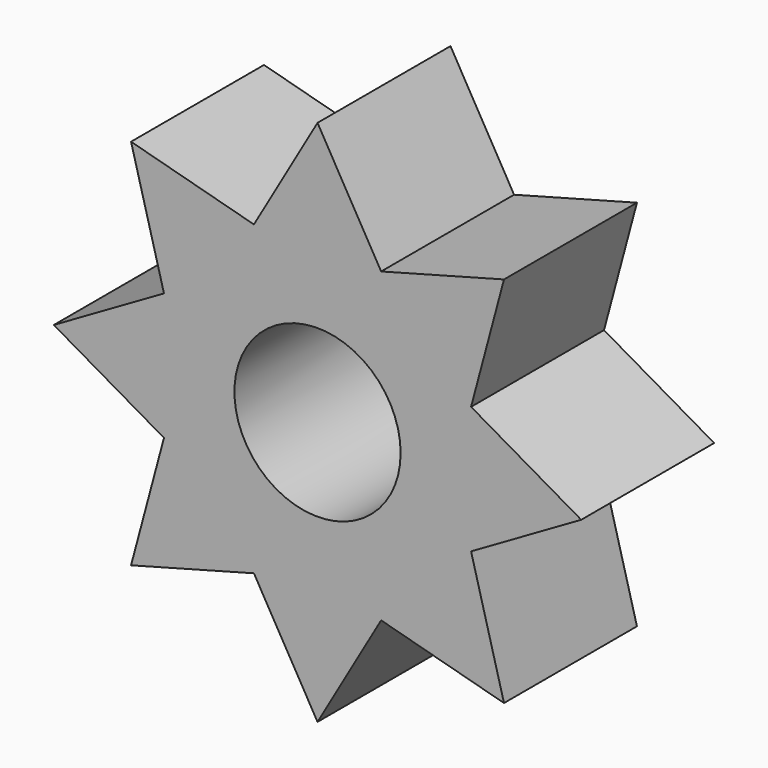
from build123d import *

# Parameters (mm, degrees)
F0_R     = 2
F1_DEPTH = 2


with BuildPart() as f1:
    # F0 (on Front) → F1 (new body, symmetric)
    with BuildSketch(Plane.XZ):
        with BuildLine():
            ThreePointArc((3.69551813, -1.5307337295), (3.9231411216, -0.7803612881), (4, 0))
            ThreePointArc((4, 0), (3.9231411216, 0.7803612881), (3.69551813, 1.5307337295))
            ThreePointArc((3.69551813, 1.5307337295), (2.8284271247, 2.8284271247), (1.5307337295, 3.69551813))
            ThreePointArc((1.5307337295, 3.69551813), (0, 4), (-1.5307337295, 3.69551813))
            ThreePointArc((-1.5307337295, 3.69551813), (-2.8284271247, 2.8284271247), (-3.69551813, 1.5307337295))
            ThreePointArc((-3.69551813, 1.5307337295), (-4, 0), (-3.69551813, -1.5307337295))
            ThreePointArc((-3.69551813, -1.5307337295), (-2.8284271247, -2.8284271247), (-1.5307337295, -3.69551813))
            ThreePointArc((-1.5307337295, -3.69551813), (0, -4), (1.5307337295, -3.69551813))
            ThreePointArc((1.5307337295, -3.69551813), (2.8284271247, -2.8284271247), (3.69551813, -1.5307337295))
        make_face()
        Circle(F0_R, mode=Mode.SUBTRACT)
        with BuildLine():
            ThreePointArc((3.69551813, 1.5307337295), (3.9231411216, 0.7803612881), (4, 0))
            ThreePointArc((4, 0), (3.9231411216, -0.7803612881), (3.69551813, -1.5307337295))
            Line((3.69551813, -1.5307337295), (6.3468267223, 0))
            Line((6.3468267223, 0), (3.69551813, 1.5307337295))
        make_face()
        with BuildLine():
            ThreePointArc((1.5307337295, 3.69551813), (2.8284271247, 2.8284271247), (3.69551813, 1.5307337295))
            Line((3.69551813, 1.5307337295), (4.4878842144, 4.4878842144))
            Line((4.4878842144, 4.4878842144), (1.5307337295, 3.69551813))
        make_face()
        with BuildLine():
            Line((4.4878842144, -4.4878842144), (3.69551813, -1.5307337295))
            ThreePointArc((3.69551813, -1.5307337295), (2.8284271247, -2.8284271247), (1.5307337295, -3.69551813))
            Line((1.5307337295, -3.69551813), (4.4878842144, -4.4878842144))
        make_face()
        with BuildLine():
            ThreePointArc((-1.5307337295, 3.69551813), (0, 4), (1.5307337295, 3.69551813))
            Line((1.5307337295, 3.69551813), (0, 6.3468267223))
            Line((0, 6.3468267223), (-1.5307337295, 3.69551813))
        make_face()
        with BuildLine():
            Line((0, -6.3468267223), (1.5307337295, -3.69551813))
            ThreePointArc((1.5307337295, -3.69551813), (0, -4), (-1.5307337295, -3.69551813))
            Line((-1.5307337295, -3.69551813), (0, -6.3468267223))
        make_face()
        with BuildLine():
            ThreePointArc((-3.69551813, 1.5307337295), (-2.8284271247, 2.8284271247), (-1.5307337295, 3.69551813))
            Line((-1.5307337295, 3.69551813), (-4.4878842144, 4.4878842144))
            Line((-4.4878842144, 4.4878842144), (-3.69551813, 1.5307337295))
        make_face()
        with BuildLine():
            Line((-4.4878842144, -4.4878842144), (-1.5307337295, -3.69551813))
            ThreePointArc((-1.5307337295, -3.69551813), (-2.8284271247, -2.8284271247), (-3.69551813, -1.5307337295))
            Line((-3.69551813, -1.5307337295), (-4.4878842144, -4.4878842144))
        make_face()
        with BuildLine():
            ThreePointArc((-3.69551813, -1.5307337295), (-4, 0), (-3.69551813, 1.5307337295))
            Line((-3.69551813, 1.5307337295), (-6.3468267223, 0))
            Line((-6.3468267223, 0), (-3.69551813, -1.5307337295))
        make_face()
    extrude(amount=F1_DEPTH, both=True)


solid = f1.part
